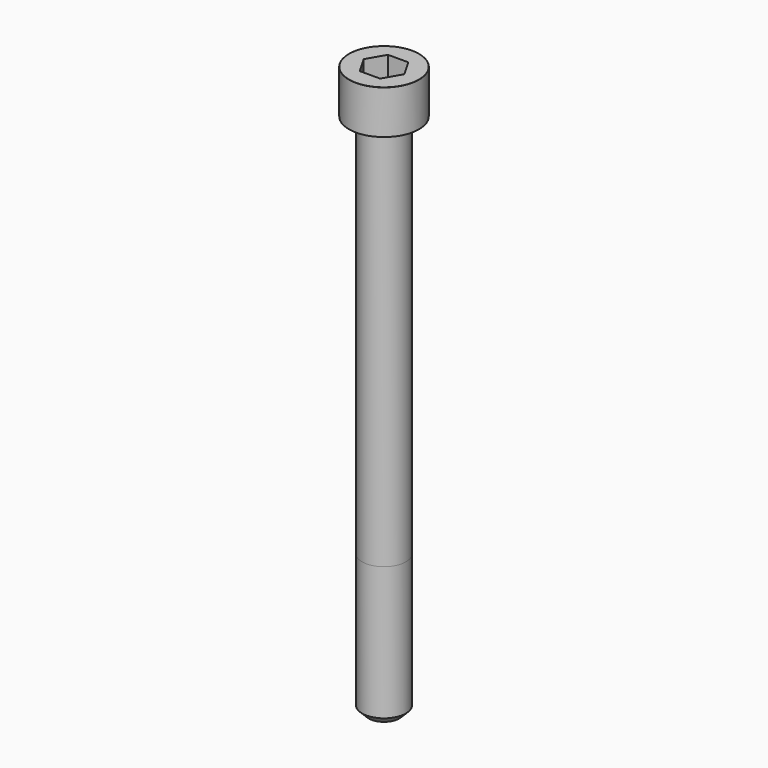
from build123d import *

# Parameters (mm, degrees)
POCKET_DEPTH = 8.07


with BuildPart() as part:
    # Sketch → Revolve (revolve)
    with BuildSketch(Plane.YZ):
        with BuildLine():
            Line((4.999, 0), (8, 0))
            Line((8, 0), (8, 9.97229))
            ThreePointArc((8, 9.97229), (7.991884, 9.991884), (7.97229, 10))
            Line((7.97229, 10), (0, 10))
            Line((0, -120), (0, 10))
            Line((3.5, -120), (0, -120))
            Line((5, -118.5), (3.5, -120))
            Line((5, -88), (5, -118.5))
            Line((4.999, 0), (5, -88))
        make_face()
    revolve(axis=Axis((0, 0, 0), (0, 0, 1)))

    # Sketch001 → Pocket (cut)
    with BuildSketch(Plane.XY.offset(10)):
        Polygon((4.659217, 0), (2.329608, 4.035), (-2.329608, 4.035), (-4.659217, 0), (-2.329608, -4.035), (2.329608, -4.035), align=None)
    extrude(amount=-POCKET_DEPTH, mode=Mode.SUBTRACT)


solid = part.part
